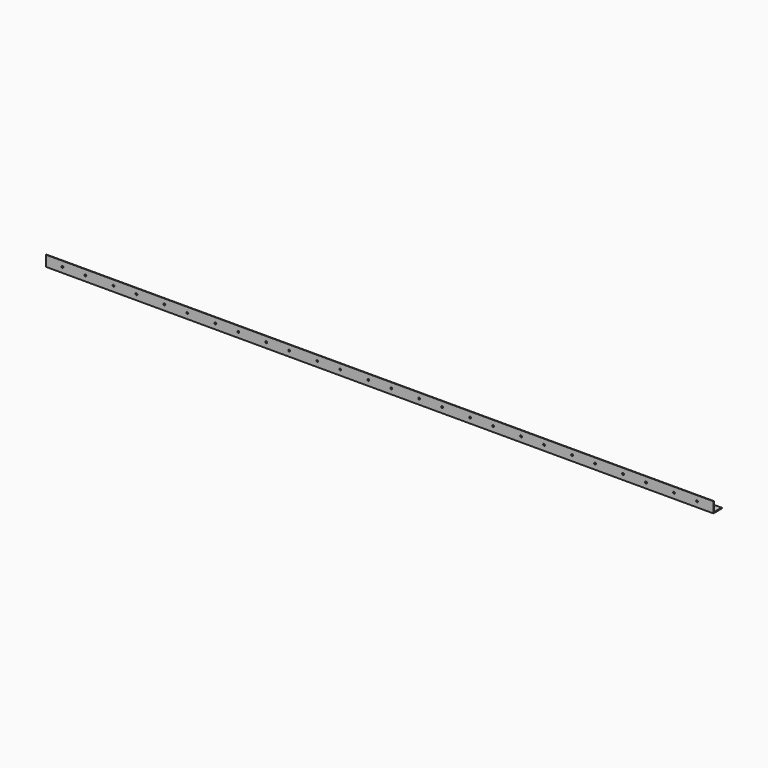
from build123d import *

# Parameters (mm, degrees)
F1_DEPTH      = 1090
F1_DEPTH_BACK = 1090
F2_R          = 3
F3_DEPTH      = 25
F4_R          = 3
F5_DEPTH      = 25


with BuildPart() as f1:
    # F0 (on Right) → F1 (new body, two sides)
    with BuildSketch(Plane.YZ) as f1_sk:
        with BuildLine():
            Line((0, 35), (0, 0))
            Line((0, 0), (35, 0))
            Line((35, 0), (35, 1))
            ThreePointArc((35, 1), (34.414214, 2.414214), (33, 3))
            Line((33, 3), (6.5, 3))
            ThreePointArc((6.5, 3), (4.025126, 4.025126), (3, 6.5))
            Line((3, 6.5), (3, 33))
            ThreePointArc((3, 33), (2.414214, 34.414214), (1, 35))
            Line((1, 35), (0, 35))
        make_face()
    extrude(amount=F1_DEPTH)
    extrude(f1_sk.sketch, amount=-F1_DEPTH_BACK)

    # F2 (on face) → F3 (cut)
    with BuildSketch(Plane.XZ):
        with Locations((1128, 17.5)):
            Circle(F2_R)
        with Locations((1203, 17.5)):
            Circle(F2_R)
        with Locations((1294.5, 17.5)):
            Circle(F2_R)
        with Locations((1369.5, 17.5)):
            Circle(F2_R)
        with Locations((1461, 17.5)):
            Circle(F2_R)
        with Locations((1536, 17.5)):
            Circle(F2_R)
        with Locations((1627.5, 17.5)):
            Circle(F2_R)
        with Locations((1702.5, 17.5)):
            Circle(F2_R)
        with Locations((1794, 17.5)):
            Circle(F2_R)
        with Locations((1869, 17.5)):
            Circle(F2_R)
        with Locations((1960.5, 17.5)):
            Circle(F2_R)
        with Locations((2035.5, 17.5)):
            Circle(F2_R)
        with Locations((2127, 17.5)):
            Circle(F2_R)
        with Locations((2202, 17.5)):
            Circle(F2_R)
        with Locations((-961.5, 17.5)):
            Circle(F2_R)
        with Locations((-870, 17.5)):
            Circle(F2_R)
        with Locations((-795, 17.5)):
            Circle(F2_R)
        with Locations((-703.5, 17.5)):
            Circle(F2_R)
        with Locations((-628.5, 17.5)):
            Circle(F2_R)
        with Locations((-537, 17.5)):
            Circle(F2_R)
        with Locations((-462, 17.5)):
            Circle(F2_R)
        with Locations((-370.5, 17.5)):
            Circle(F2_R)
        with Locations((-295.5, 17.5)):
            Circle(F2_R)
        with Locations((-204, 17.5)):
            Circle(F2_R)
        with Locations((-129, 17.5)):
            Circle(F2_R)
        with Locations((-37.5, 17.5)):
            Circle(F2_R)
        with Locations((37.5, 17.5)):
            Circle(F2_R)
        with Locations((129, 17.5)):
            Circle(F2_R)
        with Locations((204, 17.5)):
            Circle(F2_R)
        with Locations((295.5, 17.5)):
            Circle(F2_R)
        with Locations((370.5, 17.5)):
            Circle(F2_R)
        with Locations((462, 17.5)):
            Circle(F2_R)
        with Locations((537, 17.5)):
            Circle(F2_R)
        with Locations((628.5, 17.5)):
            Circle(F2_R)
        with Locations((703.5, 17.5)):
            Circle(F2_R)
        with Locations((795, 17.5)):
            Circle(F2_R)
        with Locations((870, 17.5)):
            Circle(F2_R)
        with Locations((961.5, 17.5)):
            Circle(F2_R)
        with Locations((1036.5, 17.5)):
            Circle(F2_R)
        with Locations((-1036.5, 17.5)):
            Circle(F2_R)
    extrude(amount=-F3_DEPTH, mode=Mode.SUBTRACT)

    # F4 (on face) → F5 (cut)
    with BuildSketch(Plane(origin=(0, 0, 0), x_dir=(1, 0, 0), z_dir=(0, 0, -1))):
        with Locations((-1036.5, -17.5)):
            Circle(F4_R)
        with Locations((-961.5, -17.5)):
            Circle(F4_R)
        with Locations((-870, -17.5)):
            Circle(F4_R)
        with Locations((-795, -17.5)):
            Circle(F4_R)
        with Locations((-703.5, -17.5)):
            Circle(F4_R)
        with Locations((-628.5, -17.5)):
            Circle(F4_R)
        with Locations((-537, -17.5)):
            Circle(F4_R)
        with Locations((-462, -17.5)):
            Circle(F4_R)
        with Locations((-370.5, -17.5)):
            Circle(F4_R)
        with Locations((-295.5, -17.5)):
            Circle(F4_R)
        with Locations((-204, -17.5)):
            Circle(F4_R)
        with Locations((-129, -17.5)):
            Circle(F4_R)
        with Locations((-37.5, -17.5)):
            Circle(F4_R)
        with Locations((37.5, -17.5)):
            Circle(F4_R)
        with Locations((129, -17.5)):
            Circle(F4_R)
        with Locations((204, -17.5)):
            Circle(F4_R)
        with Locations((295.5, -17.5)):
            Circle(F4_R)
        with Locations((370.5, -17.5)):
            Circle(F4_R)
        with Locations((462, -17.5)):
            Circle(F4_R)
        with Locations((537, -17.5)):
            Circle(F4_R)
        with Locations((628.5, -17.5)):
            Circle(F4_R)
        with Locations((703.5, -17.5)):
            Circle(F4_R)
        with Locations((795, -17.5)):
            Circle(F4_R)
        with Locations((870, -17.5)):
            Circle(F4_R)
        with Locations((961.5, -17.5)):
            Circle(F4_R)
        with Locations((1036.5, -17.5)):
            Circle(F4_R)
        with Locations((1128, -17.5)):
            Circle(F4_R)
        with Locations((1203, -17.5)):
            Circle(F4_R)
        with Locations((1294.5, -17.5)):
            Circle(F4_R)
        with Locations((1369.5, -17.5)):
            Circle(F4_R)
        with Locations((1461, -17.5)):
            Circle(F4_R)
        with Locations((1536, -17.5)):
            Circle(F4_R)
        with Locations((1627.5, -17.5)):
            Circle(F4_R)
        with Locations((1702.5, -17.5)):
            Circle(F4_R)
        with Locations((1794, -17.5)):
            Circle(F4_R)
        with Locations((1869, -17.5)):
            Circle(F4_R)
        with Locations((1960.5, -17.5)):
            Circle(F4_R)
        with Locations((2035.5, -17.5)):
            Circle(F4_R)
        with Locations((2127, -17.5)):
            Circle(F4_R)
        with Locations((2202, -17.5)):
            Circle(F4_R)
    extrude(amount=-F5_DEPTH, mode=Mode.SUBTRACT)


solid = f1.part
